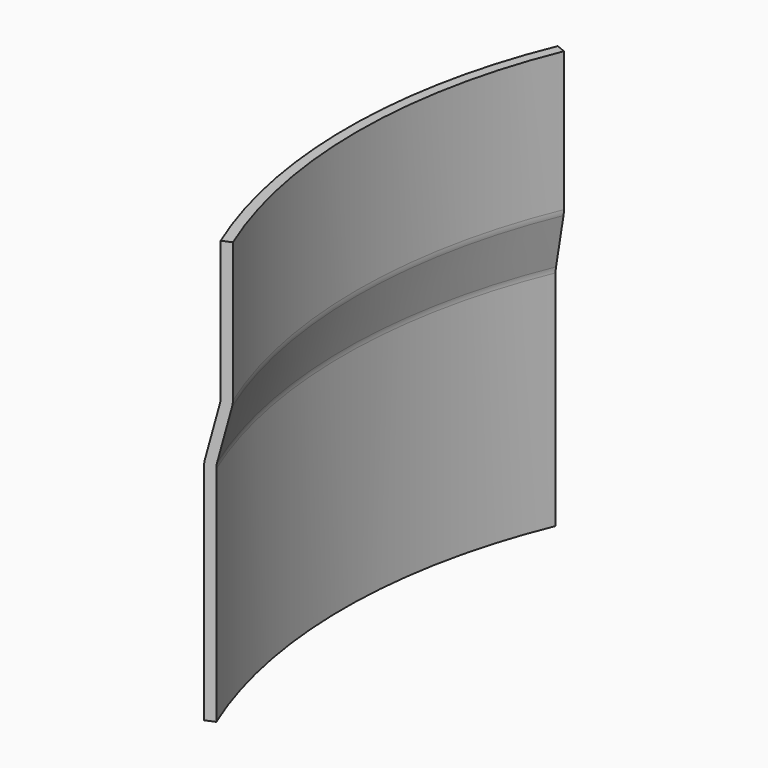
from build123d import *

# Parameters (mm, degrees)
F1_ANGLE = 45


with BuildPart() as f1:
    # F0 (on Front) → F1 (revolve, symmetric)
    with BuildSketch(Plane.XZ) as f1_sk:
        with BuildLine():
            Line((-138.298044, 63.978073), (-138.298044, 29.273118))
            ThreePointArc((-138.298044, 29.273118), (-138.339397, 28.569889), (-138.462887, 27.876354))
            Line((-138.462887, 27.876354), (-141.515425, 15.123999))
            ThreePointArc((-141.515425, 15.123999), (-141.638915, 14.430464), (-141.680269, 13.727235))
            Line((-141.680269, 13.727235), (-141.680269, -42.546439))
            Line((-141.680269, -42.546439), (-139.180269, -42.546439))
            Line((-139.180269, -42.546439), (-139.180269, 13.432189))
            ThreePointArc((-139.180269, 13.432189), (-139.138915, 14.135418), (-139.015425, 14.828953))
            Line((-139.015425, 14.828953), (-135.962887, 27.581309))
            ThreePointArc((-135.962887, 27.581309), (-135.839397, 28.274844), (-135.798044, 28.978073))
            Line((-135.798044, 28.978073), (-135.798044, 63.978073))
            Line((-135.798044, 63.978073), (-138.298044, 63.978073))
        make_face()
    revolve(axis=Axis((0, 0, -10.46107), (0, 0, -1)), revolution_arc=F1_ANGLE / 2)
    revolve(f1_sk.sketch, axis=Axis((0, 0, -10.46107), (0, 0, 1)), revolution_arc=F1_ANGLE / 2)


solid = f1.part
